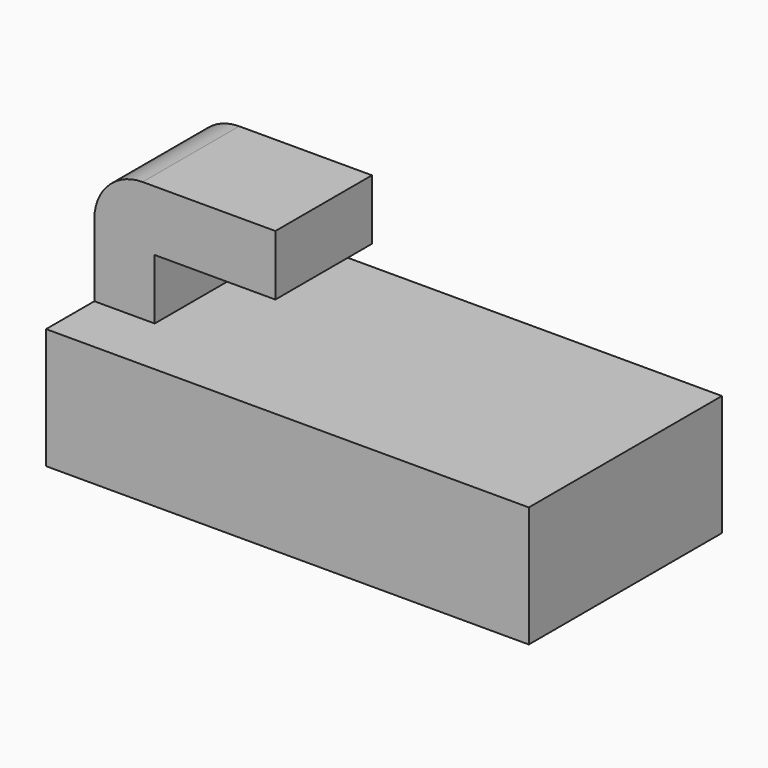
from build123d import *

# Parameters (mm, degrees)
F0_W     = 50.8
F0_H     = 25.4
F1_DEPTH = 12.7
F2_W     = 19.05
F2_H     = 12.7
F3_DEPTH = 12.7
F4_W     = 12.7
F4_H     = 6.35
F5_DEPTH = 12.7
F6_R     = 5.08


with BuildPart() as f1:
    # F0 (on Top) → F1 (new body)
    with BuildSketch(Plane.XY):
        with Locations((-5.801945, -1.255406)):
            Rectangle(F0_W, F0_H)
    extrude(amount=F1_DEPTH)

    # F2 (on face) → F3 (join)
    with BuildSketch(Plane.XY.offset(12.7)):
        with Locations((-21.676945, -1.255406)):
            Rectangle(F2_W, F2_H)
    extrude(amount=F3_DEPTH)

    # F4 (on face) → F5 (cut, through all)
    with BuildSketch(Plane.XZ.offset(7.605406)):
        with Locations((-18.501945, 15.875)):
            Rectangle(F4_W, F4_H)
    extrude(amount=-F5_DEPTH, mode=Mode.SUBTRACT)

    # F6
    f6_edges = [f1.edges().sort_by_distance(p)[0] for p in [
        (-31.201945, -1.255406, 25.4),
    ]]
    fillet(f6_edges, radius=F6_R)


solid = f1.part
